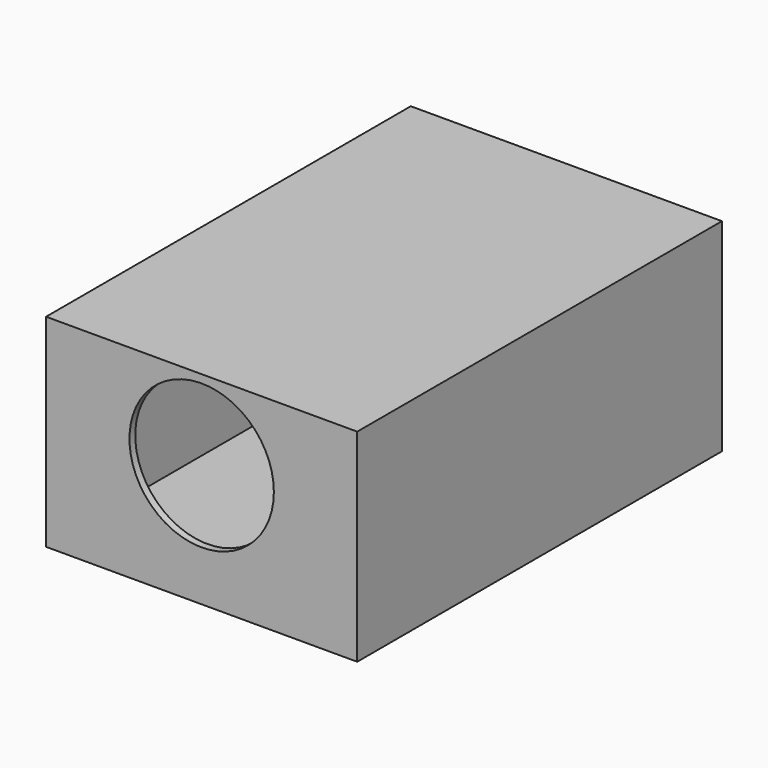
from build123d import *

# Parameters (mm, degrees)
F0_W     = 43
F0_H     = 63
F1_DEPTH = 28
F2_R     = 9.9784830952
F3_DEPTH = 63
F4_T     = -1
F6_DEPTH = 47


with BuildPart() as f1:
    # F0 (on Top) → F1 (new body)
    with BuildSketch(Plane.XY):
        with Locations((26.4628629982, -6.1696139574)):
            Rectangle(F0_W, F0_H)
    extrude(amount=F1_DEPTH)

    # F2 (on face) → F3 (cut)
    with BuildSketch(Plane.XZ.offset(37.6696139574)):
        with Locations((26.4628629982, 16.9014558196)):
            Circle(F2_R)
    extrude(amount=-F3_DEPTH, mode=Mode.SUBTRACT)

    # F4
    f4_openings = [f1.faces().sort_by_distance(p)[0] for p in [
        (16.48438, -6.169614, 16.901456),
        (47.449735, 25.330386, 14),
    ]]
    offset(amount=F4_T, openings=f4_openings)

    # F5 (on face) → F6 (cut)
    with BuildSketch(Plane(origin=(0, 25.3303860426, 0), x_dir=(-1, 0, 0), z_dir=(0, 1, 0))):
        Polygon((-36.4628629982, 27), (-26.4628629982, 27), (-16.4644755423, 27), (-16.4644755423, 27.5), (-36.4628629982, 27.5), align=None)
    extrude(amount=-F6_DEPTH, mode=Mode.SUBTRACT)


solid = f1.part
